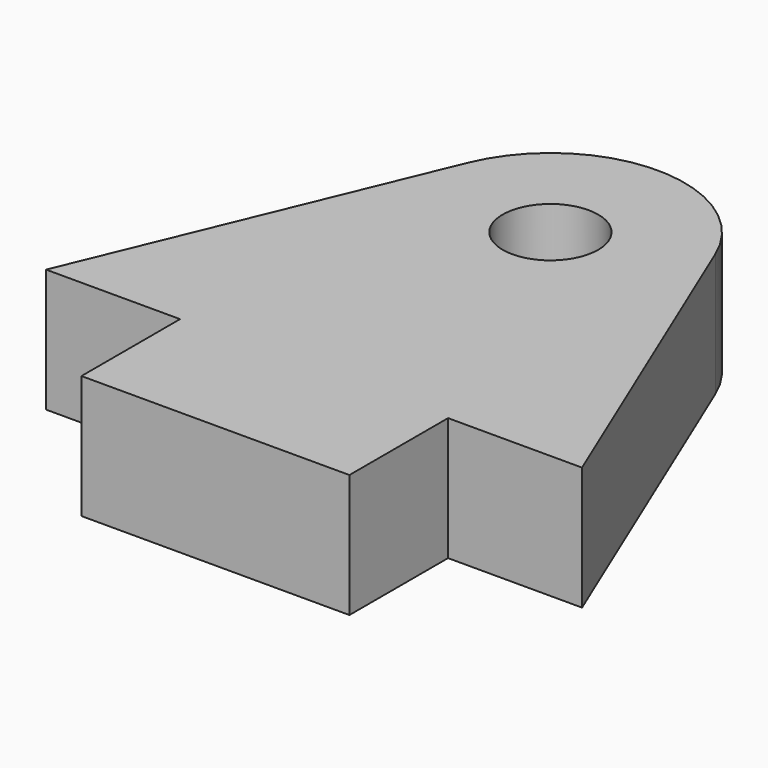
from build123d import *

# Parameters (mm, degrees)
F0_R     = 2.263
F1_DEPTH = 5.842


with BuildPart() as f1:
    # F0 (on Top) → F1 (new body)
    with BuildSketch(Plane.XY):
        with BuildLine():
            Line((-6.35, -14.00302), (-6.35, -19.84502))
            Line((-6.35, -19.84502), (6.35, -19.84502))
            Line((6.35, -19.84502), (6.35, -14.00302))
            Line((6.35, -14.00302), (12.7, -14.00302))
            Line((12.7, -14.00302), (5.863279, 2.438127))
            ThreePointArc((5.863279, 2.438127), (0, 6.35), (-5.863279, 2.438127))
            Line((-5.863279, 2.438127), (-12.7, -14.00302))
            Line((-12.7, -14.00302), (-6.35, -14.00302))
        make_face()
        Circle(F0_R, mode=Mode.SUBTRACT)
    extrude(amount=F1_DEPTH)


solid = f1.part
